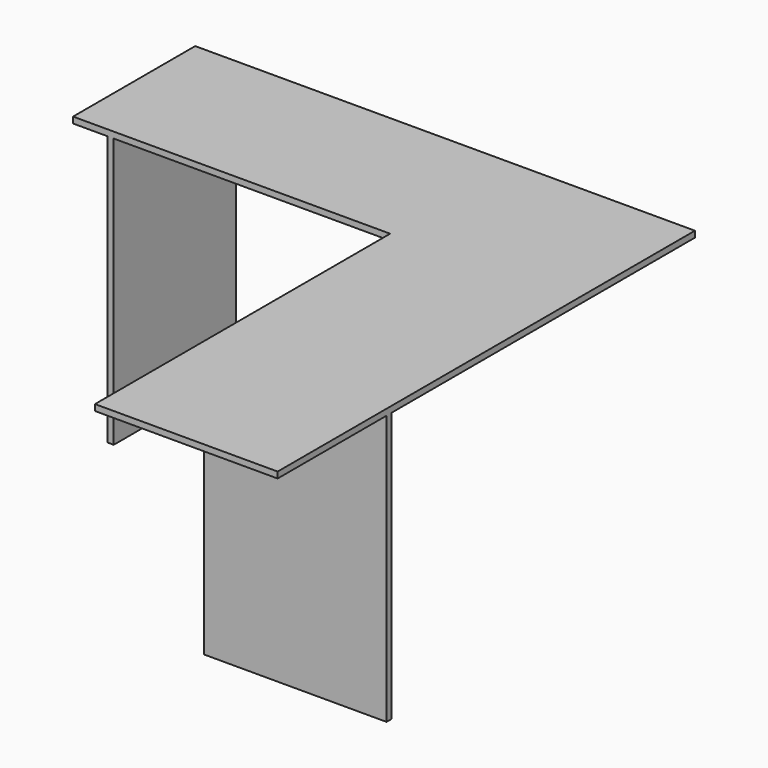
from build123d import *

# Parameters (mm, degrees)
F0_W     = 476.268752
F0_H     = 962
F1_DEPTH = 16
F2_W     = 476.268752
F2_H     = 16
F2_W_2   = 16
F2_H_2   = 398
F3_DEPTH = 703


with BuildPart() as f1:
    # F0 (on Top) → F1 (new body)
    with BuildSketch(Plane.XY):
        Polygon((634.32747, 219.137582), (-668.67253, 219.137582), (-668.67253, -178.862418), (158.058718, -178.862418), (634.32747, -178.862418), align=None)
        with Locations((396.193094, -659.862418)):
            Rectangle(F0_W, F0_H)
    extrude(amount=F1_DEPTH)

    # F2 (on face) → F3 (join)
    with BuildSketch(Plane(origin=(0, 0, 0), x_dir=(1, 0, 0), z_dir=(0, 0, -1))):
        with Locations((396.193094, 777.862418)):
            Rectangle(F2_W, F2_H)
        with Locations((-570.67253, -20.137582)):
            Rectangle(F2_W_2, F2_H_2)
    extrude(amount=F3_DEPTH)


solid = f1.part
